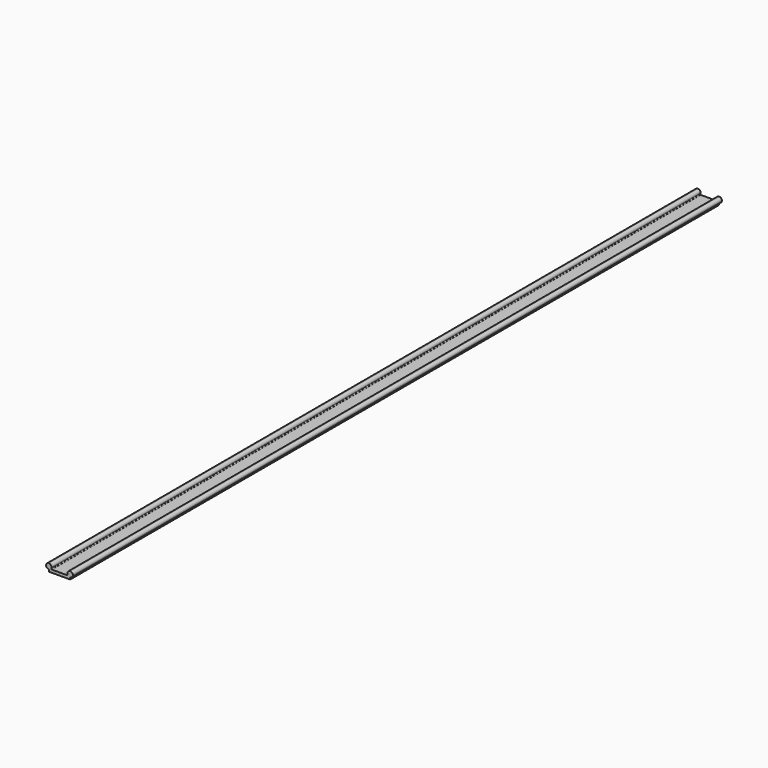
from build123d import *

# Parameters (mm, degrees)
F1_DEPTH = 1524
F2_R     = 1.27


with BuildPart() as f1:
    # F0 (on Front) → F1 (new body)
    with BuildSketch(Plane.XZ):
        with BuildLine():
            ThreePointArc((-45.3183636102, -3.556), (-44.243239134, -1.9205395258), (-43.8662092519, 0))
            Line((-43.8662092519, 0), (-48.9462092519, 0))
            Line((-48.9462092519, 0), (-48.9462092519, -3.556))
            Line((-48.9462092519, -3.556), (-45.3183636102, -3.556))
        make_face()
        with BuildLine():
            Line((-48.9462092519, 0), (-43.8662092519, 0))
            ThreePointArc((-43.8662092519, 0), (-45.3541068035, 3.5921024484), (-48.9462092519, 5.08))
            Line((-48.9462092519, 5.08), (-48.9462092519, 0))
        make_face()
        with BuildLine():
            ThreePointArc((-48.9462092519, -5.08), (-46.978733712, -4.6835285843), (-45.3183636102, -3.556))
            Line((-45.3183636102, -3.556), (-48.9462092519, -3.556))
            Line((-48.9462092519, -3.556), (-48.9462092519, -5.08))
        make_face()
        with BuildLine():
            Line((-48.9462092519, 0), (-48.9462092519, 5.08))
            ThreePointArc((-48.9462092519, 5.08), (-54.0262092519, 0), (-48.9462092519, -5.08))
            Line((-48.9462092519, -5.08), (-48.9462092519, -3.556))
            Line((-48.9462092519, -3.556), (-48.9462092519, 0))
        make_face()
        with BuildLine():
            Line((-12.3658548936, -3.556), (-45.3183636102, -3.556))
            ThreePointArc((-45.3183636102, -3.556), (-46.978733712, -4.6835285843), (-48.9462092519, -5.08))
            Line((-48.9462092519, -5.08), (-48.9462092519, -8.89))
            Line((-48.9462092519, -8.89), (-8.7380092519, -8.89))
            Line((-8.7380092519, -8.89), (-8.7380092519, -5.08))
            ThreePointArc((-8.7380092519, -5.08), (-10.7054847918, -4.6835285843), (-12.3658548936, -3.556))
        make_face()
        with BuildLine():
            Line((-8.7380092519, 0), (-13.8180092519, 0))
            ThreePointArc((-13.8180092519, 0), (-13.4409793698, -1.9205395258), (-12.3658548936, -3.556))
            Line((-12.3658548936, -3.556), (-8.7380092519, -3.556))
            Line((-8.7380092519, -3.556), (-8.7380092519, 0))
        make_face()
        with BuildLine():
            ThreePointArc((-8.7380092519, 5.08), (-12.3301117003, 3.5921024484), (-13.8180092519, 0))
            Line((-13.8180092519, 0), (-8.7380092519, 0))
            Line((-8.7380092519, 0), (-8.7380092519, 5.08))
        make_face()
        with BuildLine():
            Line((-8.7380092519, -3.556), (-12.3658548936, -3.556))
            ThreePointArc((-12.3658548936, -3.556), (-10.7054847918, -4.6835285843), (-8.7380092519, -5.08))
            Line((-8.7380092519, -5.08), (-8.7380092519, -3.556))
        make_face()
        with BuildLine():
            Line((-8.7380092519, 5.08), (-8.7380092519, 0))
            Line((-8.7380092519, 0), (-8.7380092519, -3.556))
            Line((-8.7380092519, -3.556), (-8.7380092519, -5.08))
            ThreePointArc((-8.7380092519, -5.08), (-5.1459068035, -3.5921024484), (-3.6580092519, 0))
            ThreePointArc((-3.6580092519, 0), (-5.1459068035, 3.5921024484), (-8.7380092519, 5.08))
        make_face()
    extrude(amount=F1_DEPTH)

    # F2
    f2_edges = [f1.edges().sort_by_distance(p)[0] for p in [
        (-45.318364, -762, -3.556),
        (-12.365855, -762, -3.556),
    ]]
    fillet(f2_edges, radius=F2_R)


solid = f1.part
